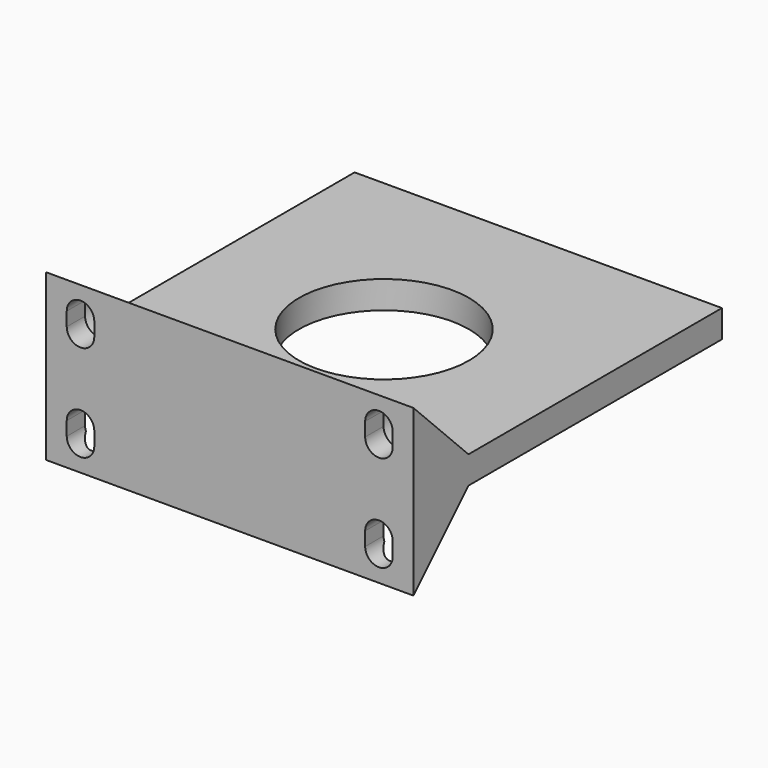
from build123d import *

# Parameters (mm, degrees)
SKETCH071_W     = 80
SKETCH071_H     = 84
SKETCH071_R     = 18.5
PAD029_DEPTH    = 6
PAD030_DEPTH    = 80
POCKET027_DEPTH = 84.001
POCKET028_DEPTH = 79.001


with BuildPart() as part:
    # Sketch071 → Pad029 (new body)
    with BuildSketch(Plane.XY):
        Rectangle(SKETCH071_W, SKETCH071_H)
        Circle(SKETCH071_R, mode=Mode.SUBTRACT)
    extrude(amount=PAD029_DEPTH)

    # Sketch072 (on Face3 of Pad029) → Pad030 (join)
    with BuildSketch(Plane(origin=(-40, 0, 0), x_dir=(0, -1, 0), z_dir=(-1, 0, 0))):
        Polygon((27, 0), (42, 0), (42, -15), align=None)
        Polygon((27, 6), (42, 6), (42, 21), align=None)
    extrude(amount=-PAD030_DEPTH)

    # Sketch073 (on Face8 of Pad030) → Pocket027 (cut, through all)
    with BuildSketch(Plane.XZ.offset(42)):
        with BuildLine():
            ThreePointArc((-35.5, 12), (-32.5, 9), (-29.5, 12))
            Line((-29.5, 12), (-29.5, 15))
            ThreePointArc((-29.5, 15), (-32.5, 18), (-35.5, 15))
            Line((-35.5, 12), (-35.5, 15))
        make_face()
        with BuildLine():
            ThreePointArc((35.5, 15), (32.5, 18), (29.5, 15))
            Line((29.5, 15), (29.5, 12))
            ThreePointArc((29.5, 12), (32.5, 9), (35.5, 12))
            Line((35.5, 15), (35.5, 12))
        make_face()
        with BuildLine():
            ThreePointArc((-29.5, -6), (-32.5, -3), (-35.5, -6))
            Line((-35.5, -6), (-35.5, -9))
            ThreePointArc((-35.5, -9), (-32.5, -12), (-29.5, -9))
            Line((-29.5, -6), (-29.5, -9))
        make_face()
        with BuildLine():
            ThreePointArc((35.5, -6), (32.5, -3), (29.5, -6))
            Line((29.5, -6), (29.5, -9))
            ThreePointArc((29.5, -9), (32.5, -12), (35.5, -9))
            Line((35.5, -6), (35.5, -9))
        make_face()
    extrude(amount=-POCKET027_DEPTH, mode=Mode.SUBTRACT)

    # Sketch074 (on Face8 of Pocket027) → Pocket028 (cut, through all)
    with BuildSketch(Plane.XZ.offset(37)):
        with BuildLine():
            ThreePointArc((-27, 15), (-32.5, 20.5), (-38, 15))
            Line((-38, 15), (-38, 12))
            ThreePointArc((-38, 12), (-32.5, 6.5), (-27, 12))
            Line((-27, 15), (-27, 12))
        make_face()
        with BuildLine():
            ThreePointArc((38, 14.79435), (32.5, 20.29435), (27, 14.79435))
            Line((27, 14.79435), (27, 11.79435))
            ThreePointArc((27, 11.79435), (32.5, 6.29435), (38, 11.79435))
            Line((38, 14.79435), (38, 11.79435))
        make_face()
        with BuildLine():
            ThreePointArc((38, -6), (32.5, -0.5), (27, -6))
            Line((27, -6), (27, -9))
            ThreePointArc((27, -9), (32.5, -14.5), (38, -9))
            Line((38, -6), (38, -9))
        make_face()
        with BuildLine():
            ThreePointArc((-27, -6), (-32.5, -0.5), (-38, -6))
            Line((-38, -6), (-38, -9))
            ThreePointArc((-38, -9), (-32.5, -14.5), (-27, -9))
            Line((-27, -6), (-27, -9))
        make_face()
    extrude(amount=-POCKET028_DEPTH, mode=Mode.SUBTRACT)


with BuildPart() as part_1:
    # Body007 placement: moved
    add(part.part.moved(Location((0, -1.2e-05, 103.000008))))


solid = part_1.part
